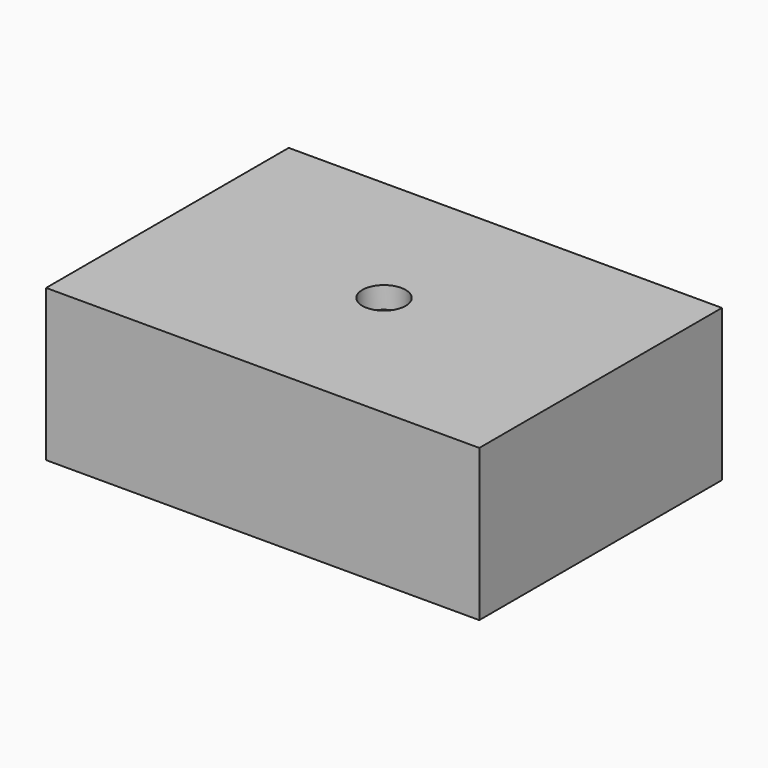
from build123d import *

# Parameters (mm, degrees)
F0_W           = 100
F0_H           = 70
F1_DEPTH       = 17.5
F4_D           = 5
F4_CBORE_D     = 10
F4_CBORE_DEPTH = 5


with BuildPart() as f1:
    # F0 (on Top) → F1 (new body, symmetric)
    with BuildSketch(Plane.XY):
        Rectangle(F0_W, F0_H)
    extrude(amount=F1_DEPTH, both=True)

    # F4 (through all)
    with Locations(Plane.XY.offset(17.5)):
        with Locations((0, 0)):
            CounterBoreHole(F4_D / 2, F4_CBORE_D / 2, F4_CBORE_DEPTH)


solid = f1.part
